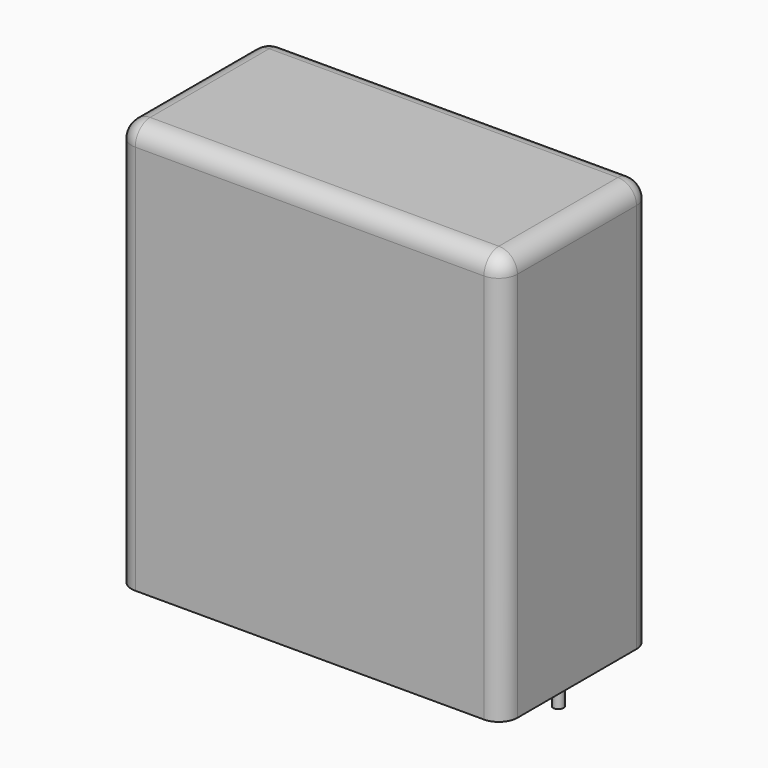
from build123d import *

# Parameters (mm, degrees)
SKETCH_W     = 41.5
SKETCH_H     = 20
PAD_DEPTH    = 44
FILLET_R     = 2
SKETCH001_R  = 0.55
PAD001_DEPTH = 3.2


with BuildPart() as fillet_body:
    # Sketch → Pad (new body)
    with BuildSketch(Plane.XY.offset(0.1)):
        with Locations((18.75, 0)):
            Rectangle(SKETCH_W, SKETCH_H)
    extrude(amount=PAD_DEPTH)

    # Fillet
    fillet_edges = [fillet_body.edges().sort_by_distance(p)[0] for p in [
        (-2, 0, 44.1),
        (-2, -10, 22.1),
        (18.75, -10, 44.1),
        (39.5, -10, 22.1),
        (39.5, 0, 44.1),
        (39.5, 10, 22.1),
        (18.75, 10, 44.1),
        (-2, 10, 22.1),
    ]]
    fillet(fillet_edges, radius=FILLET_R)


with BuildPart() as pad001:
    # Sketch001 → Pad001 (new body)
    with BuildSketch(Plane.XY.offset(0.5)):
        Circle(SKETCH001_R)
        with Locations((37.5, 0)):
            Circle(SKETCH001_R)
    extrude(amount=-PAD001_DEPTH)


solid = Compound([fillet_body.part, pad001.part])
